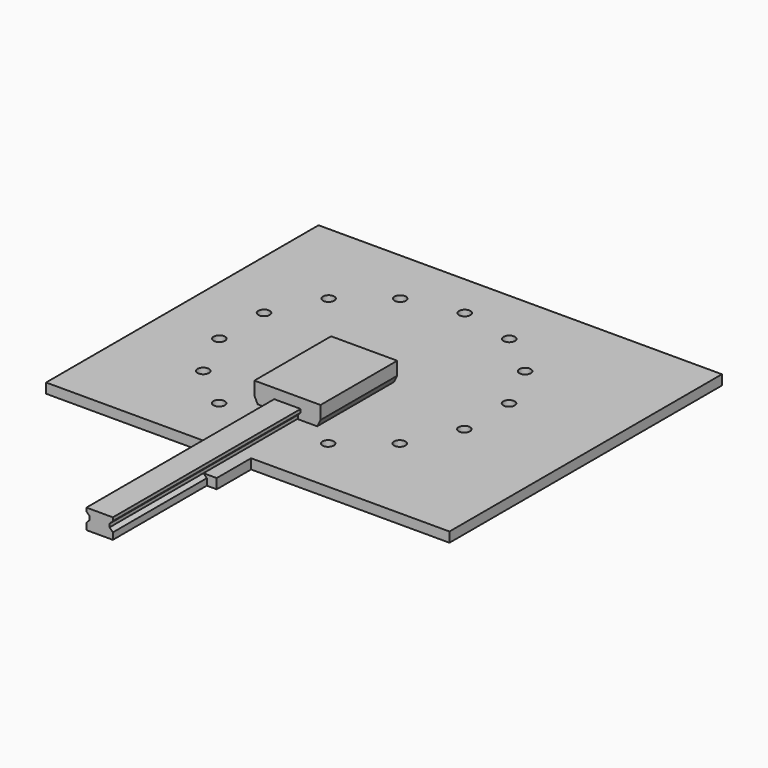
from build123d import *

# Parameters (mm, degrees)
F0_W           = 70
F0_H           = 65
F1_DEPTH       = 15
F3_D           = 8.5
F3_CBORE_D     = 17.25
F3_CBORE_DEPTH = 10
F5_DEPTH       = 500
F6_DEPTH       = 145
F8_D           = 8.5


with BuildPart() as f1:
    # F0 (on Top) → F1 (new body)
    with BuildSketch(Plane.XY):
        Polygon((35, -257.5), (335, -257.5), (335, 257.5), (-275, 257.5), (-275, -257.5), (-35, -257.5), align=None)
        with Locations((0, -290)):
            Rectangle(F0_W, F0_H)
    extrude(amount=F1_DEPTH)

    # F3 (through all)
    with Locations(Plane.XY.offset(15)):
        with Locations((0, 190), (82.4379104323, 171.1840849015), (148.5479816689, 118.4630623532), (185.2363033145, 42.2789774517), (185.2363033145, -42.2789774517), (148.5479816689, -118.4630623532), (82.4379104323, -171.1840849015), (0, -190), (-82.4379104323, -171.1840849015), (-148.5479816689, -118.4630623532), (-185.2363033145, -42.2789774517), (-185.2363033145, 42.2789774517), (-148.5479816689, 118.4630623532), (-82.4379104323, 171.1840849015)):
            CounterBoreHole(F3_D / 2, F3_CBORE_D / 2, F3_CBORE_DEPTH)

    # F8 (through all)
    with Locations(Plane.XY.offset(15)):
        with Locations((0, 0)):
            Hole(F8_D / 2)


with BuildPart() as f5:
    # F4 (on Front) → F5 (new body)
    with BuildSketch(Plane.XZ):
        Polygon((-20, 0), (0, 0), (20, 0), (20, 5), (20, 10), (16, 14), (15, 15), (15, 20), (16, 21), (20, 25), (20, 30), (0, 30), (-20, 30), (-20, 25), (-16, 21), (-15, 20), (-15, 15), (-16, 14), (-20, 10), (-20, 5), align=None)
    extrude(amount=F5_DEPTH)


with BuildPart() as f6:
    # F4 (on Front) → F6 (new body)
    with BuildSketch(Plane.XZ):
        Polygon((-40, 5), (-20, 5), (-20, 10), (-16, 14), (-16, 21), (-20, 25), (-20, 30), (0, 30), (20, 30), (20, 25), (16, 21), (16, 14), (20, 10), (20, 5), (40, 5), (50, 25), (50, 45), (0, 45), (-50, 45), (-50, 25), align=None)
    extrude(amount=F6_DEPTH)


solid = Compound([f1.part, f5.part, f6.part])
